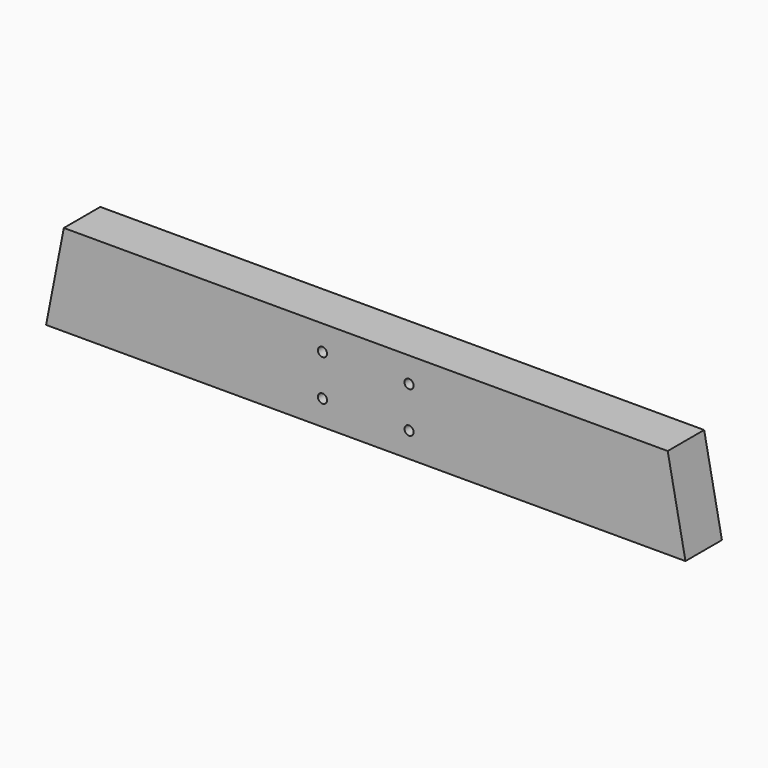
from build123d import *

# Parameters (mm, degrees)
F0_R     = 4
F1_DEPTH = 40


with BuildPart() as f1:
    # F0 (on Front) → F1 (new body)
    with BuildSketch(Plane.XZ):
        Polygon((545.584416, 0), (15.584416, 0), (0, -80), (561.168831, -80), align=None)
        with Locations((242.584416, -58)):
            Circle(F0_R, mode=Mode.SUBTRACT)
        with Locations((318.584416, -58)):
            Circle(F0_R, mode=Mode.SUBTRACT)
        with Locations((242.584416, -22)):
            Circle(F0_R, mode=Mode.SUBTRACT)
        with Locations((318.584416, -22)):
            Circle(F0_R, mode=Mode.SUBTRACT)
    extrude(amount=-F1_DEPTH)


solid = f1.part
